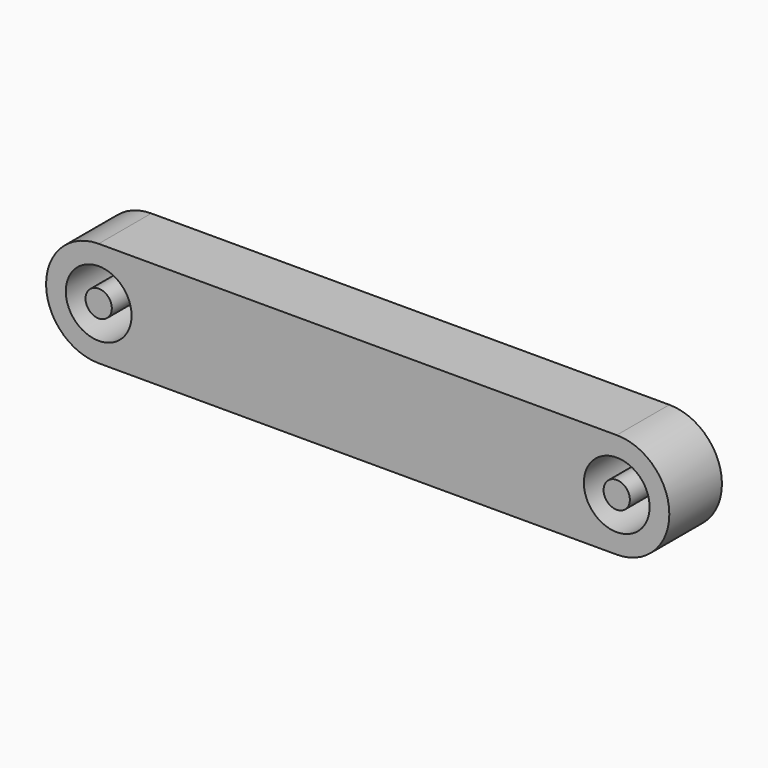
from build123d import *

# Parameters (mm, degrees)
F0_R     = 1
F1_DEPTH = 5
F0_R_2   = 2.5


with BuildPart() as f1:
    # F0 (on Front) → F1 (new body)
    with BuildSketch(Plane.XZ):
        Circle(F0_R)
    extrude(amount=F1_DEPTH)


with BuildPart() as f1b:
    # F0 (on Front) → F1, piece 2 (new body)
    with BuildSketch(Plane.XZ):
        with BuildLine():
            Line((39.4, 4), (0, 4))
            ThreePointArc((0, 4), (-4, 0), (0, -4))
            Line((0, -4), (39.4, -4))
            ThreePointArc((39.4, -4), (43.4, 0), (39.4, 4))
        make_face()
        Circle(F0_R_2, mode=Mode.SUBTRACT)
        with BuildLine():
            ThreePointArc((41.9, 0), (39.4, -2.5), (36.9, 0))
            ThreePointArc((36.9, 0), (39.4, 2.5), (41.9, 0))
        make_face(mode=Mode.SUBTRACT)
    extrude(amount=F1_DEPTH)


with BuildPart() as f1c:
    # F0 (on Front) → F1, piece 3 (new body)
    with BuildSketch(Plane.XZ):
        with BuildLine():
            ThreePointArc((40.4, 0), (39.4, 1), (38.4, 0))
            ThreePointArc((38.4, 0), (39.4, -1), (40.4, 0))
        make_face()
    extrude(amount=F1_DEPTH)


solid = Compound([f1.part, f1b.part, f1c.part])
